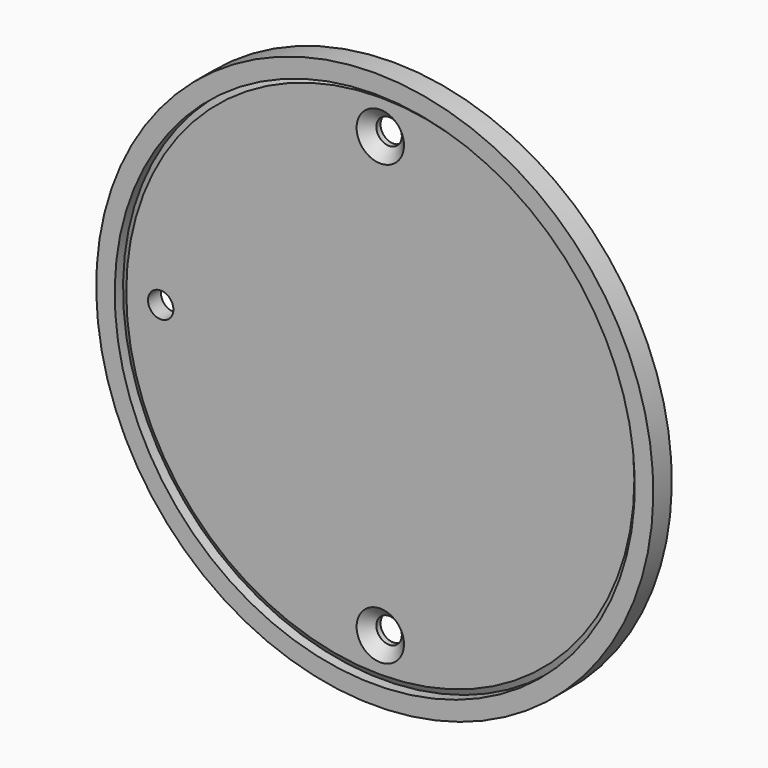
from build123d import *

# Parameters (mm, degrees)
F3_D           = 2.2
F4_D           = 2.2
F4_CSINK_D     = 4.1
F4_CSINK_ANGLE = 90


with BuildPart() as f1:
    # F0 (on Right) → F1 (revolve)
    with BuildSketch(Plane.YZ):
        Polygon((0, 21.980385), (0, 0), (1.4, 0), (1.4, 24.1), (-0.6, 24.1), (-0.6, 22.5), (0.3, 22.5), align=None)
    revolve(axis=Axis((0, 0.7, 0), (0, -1, 0)))

    # F3 (through all)
    with Locations(Plane.XZ):
        with Locations((-19, 0)):
            Hole(F3_D / 2)

    # F4 (through all)
    with Locations(Plane.XZ):
        with Locations((0, 19), (0, -19)):
            CounterSinkHole(F4_D / 2, F4_CSINK_D / 2, counter_sink_angle=F4_CSINK_ANGLE)


solid = f1.part
